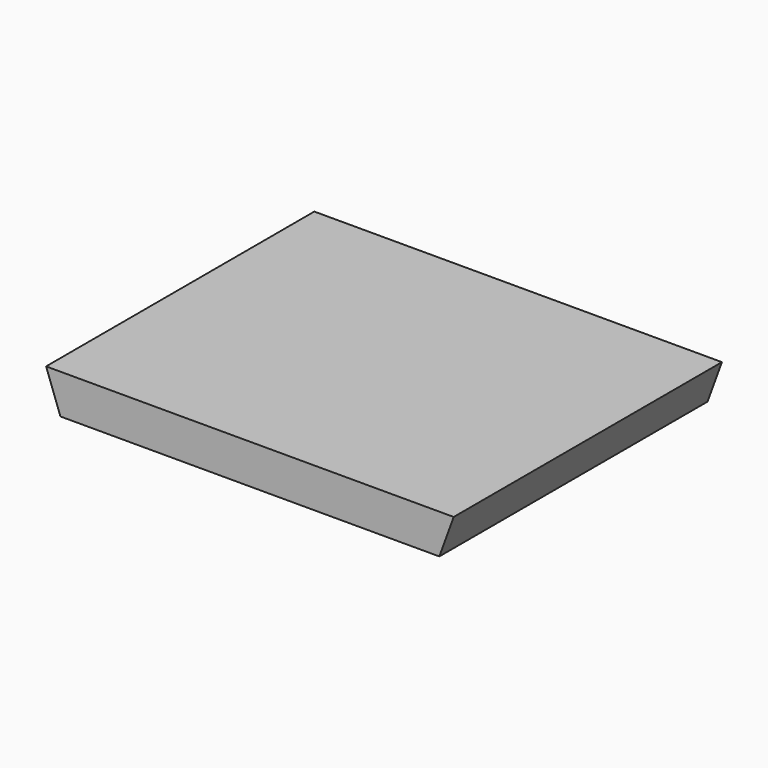
from build123d import *

# Parameters (mm, degrees)
F0_W     = 196.85
F0_H     = 161.925
F1_DEPTH = 19.05
F3_DEPTH = 161.926


with BuildPart() as f1:
    # F0 (on Top) → F1 (new body)
    with BuildSketch(Plane.XY):
        Rectangle(F0_W, F0_H)
    extrude(amount=F1_DEPTH)

    # F2 (on face) → F3 (cut, through all)
    with BuildSketch(Plane.XZ.offset(80.9625)):
        Polygon((-91.491367, 0), (-98.425, 19.05), (-98.425, -13.328268), (98.425, -13.328268), (98.425, 19.05), (91.491367, 0), align=None)
    extrude(amount=-F3_DEPTH, mode=Mode.SUBTRACT)


solid = f1.part
